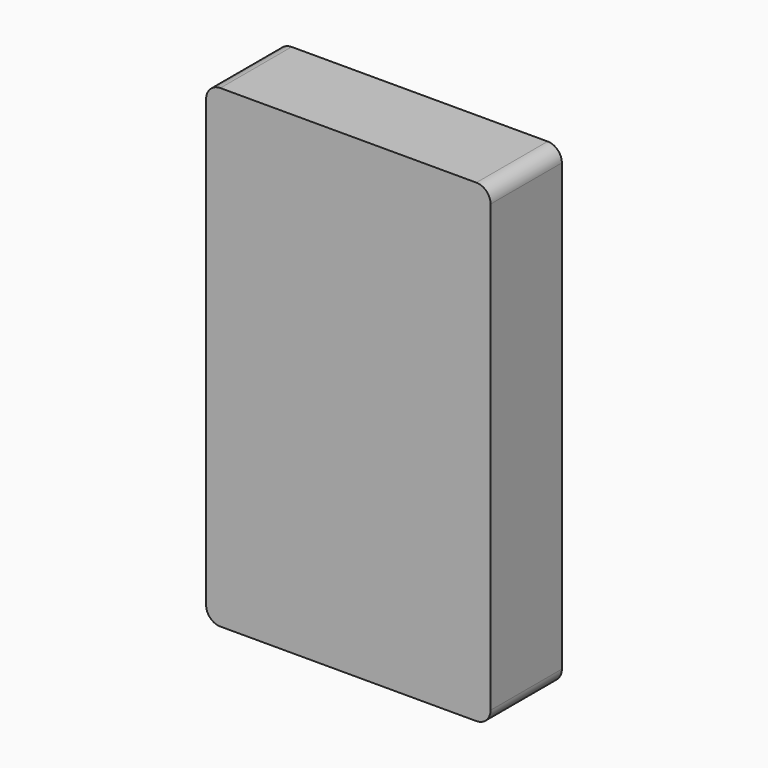
from build123d import *

# Parameters (mm, degrees)
F1_DEPTH = 18.8


with BuildPart() as f1:
    # F0 (on Front) → F1 (new body)
    with BuildSketch(Plane.XZ):
        with BuildLine():
            ThreePointArc((-81.9481611252, -64.882794404), (-81.0694814687, -67.0041147476), (-78.9481611252, -67.882794404))
            Line((-78.9481611252, -67.882794404), (-24.9481611252, -67.882794404))
            ThreePointArc((-24.9481611252, -67.882794404), (-22.8268407816, -67.0041147476), (-21.9481611252, -64.882794404))
            Line((-21.9481611252, -64.882794404), (-21.9481611252, 29.117205596))
            ThreePointArc((-21.9481611252, 29.117205596), (-22.8268407816, 31.2385259395), (-24.9481611252, 32.117205596))
            Line((-24.9481611252, 32.117205596), (-78.9481611252, 32.117205596))
            ThreePointArc((-78.9481611252, 32.117205596), (-81.0694814687, 31.2385259395), (-81.9481611252, 29.117205596))
            Line((-81.9481611252, 29.117205596), (-81.9481611252, -64.882794404))
        make_face()
        with BuildLine():
            Line((-25.5481611252, 25.517205596), (-25.5481611252, -61.282794404))
            ThreePointArc((-25.5481611252, -61.282794404), (-26.4268407816, -63.4041147476), (-28.5481611252, -64.282794404))
            Line((-28.5481611252, -64.282794404), (-75.3481611252, -64.282794404))
            ThreePointArc((-75.3481611252, -64.282794404), (-77.4694814687, -63.4041147476), (-78.3481611252, -61.282794404))
            Line((-78.3481611252, -61.282794404), (-78.3481611252, 25.517205596))
            ThreePointArc((-78.3481611252, 25.517205596), (-77.4694814687, 27.6385259395), (-75.3481611252, 28.517205596))
            Line((-75.3481611252, 28.517205596), (-28.5481611252, 28.517205596))
            ThreePointArc((-28.5481611252, 28.517205596), (-26.4268407816, 27.6385259395), (-25.5481611252, 25.517205596))
        make_face(mode=Mode.SUBTRACT)
        with BuildLine():
            ThreePointArc((-28.5481611252, -64.282794404), (-26.4268407816, -63.4041147476), (-25.5481611252, -61.282794404))
            Line((-25.5481611252, -61.282794404), (-25.5481611252, 25.517205596))
            ThreePointArc((-25.5481611252, 25.517205596), (-26.4268407816, 27.6385259395), (-28.5481611252, 28.517205596))
            Line((-28.5481611252, 28.517205596), (-75.3481611252, 28.517205596))
            ThreePointArc((-75.3481611252, 28.517205596), (-77.4694814687, 27.6385259395), (-78.3481611252, 25.517205596))
            Line((-78.3481611252, 25.517205596), (-78.3481611252, -61.282794404))
            ThreePointArc((-78.3481611252, -61.282794404), (-77.4694814687, -63.4041147476), (-75.3481611252, -64.282794404))
            Line((-75.3481611252, -64.282794404), (-28.5481611252, -64.282794404))
        make_face()
    extrude(amount=F1_DEPTH)


solid = f1.part
